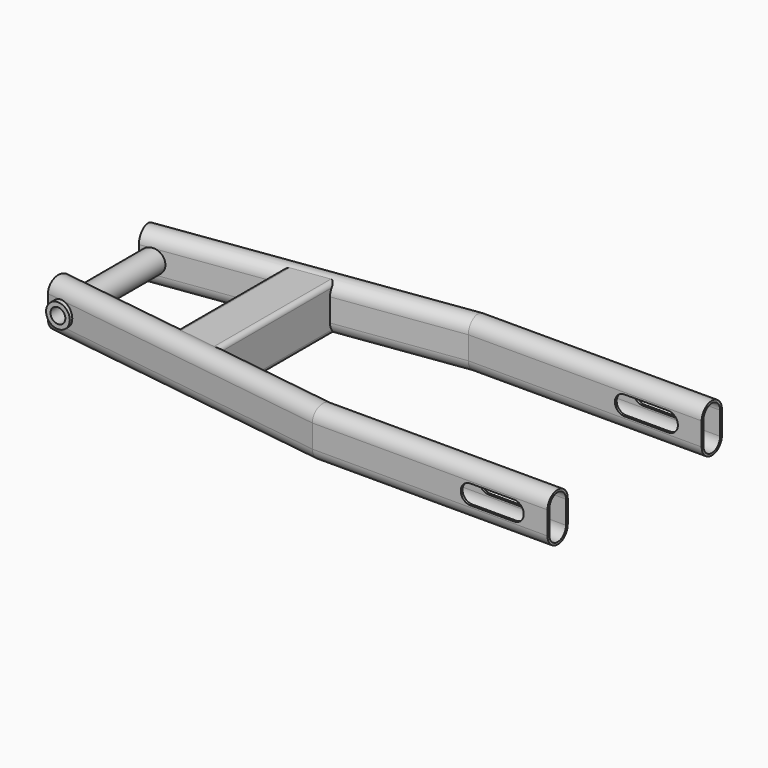
from build123d import *

# Parameters (mm, degrees)
F4_DEPTH = 25
F6_R     = 5
F7_DEPTH = 50
F6_R_2   = 8
F8_DEPTH = 50


with BuildPart() as f2:
    # F2: sweep along a path in F0
    with BuildLine(Plane.XY) as f2_path:
        Line((0, 65), (-158.03, 65))
        Line((-158.03, 65), (-358.4206463905, 36.8369312897))
    # F1 (on Right) → F2 (sweep)
    with BuildSketch(Plane.YZ):
        with BuildLine():
            ThreePointArc((56.464164108, -7.75), (65, -16.285835892), (73.535835892, -7.75))
            Line((73.535835892, -7.75), (73.535835892, 7.75))
            ThreePointArc((73.535835892, 7.75), (65, 16.285835892), (56.464164108, 7.75))
            Line((56.464164108, 7.75), (56.464164108, -7.75))
        make_face()
        with BuildLine():
            Line((57.964164108, -7.75), (57.964164108, 7.75))
            ThreePointArc((57.964164108, 7.75), (65, 14.785835892), (72.035835892, 7.75))
            Line((72.035835892, 7.75), (72.035835892, -7.75))
            ThreePointArc((72.035835892, -7.75), (65, -14.785835892), (57.964164108, -7.75))
        make_face(mode=Mode.SUBTRACT)
    sweep(path=f2_path.line, transition=Transition.RIGHT)

    # F3 (on face) → F4 (cut)
    with BuildSketch(Plane.XZ.offset(-56.464164108)):
        with BuildLine():
            ThreePointArc((-52.04, 6.5), (-58.54, 0), (-52.04, -6.5))
            Line((-52.04, -6.5), (-22.54, -6.5))
            ThreePointArc((-22.54, -6.5), (-16.04, 0), (-22.54, 6.5))
            Line((-22.54, 6.5), (-52.04, 6.5))
        make_face()
    extrude(amount=-F4_DEPTH, mode=Mode.SUBTRACT)


with BuildPart() as f5_1:
    # F5: instance of F2
    add(f2.part.mirror(Plane.XZ))


with BuildPart() as f7_tool:
    # F6 (on Front) → F7 (new body, symmetric)
    with BuildSketch(Plane.XZ):
        with Locations((-349.1286051409, 0)):
            Circle(F6_R)
    extrude(amount=F7_DEPTH, both=True)


with BuildPart() as f2_1:
    add(f2.part)

    # F7: cut by f7_tool
    add(f7_tool.part, mode=Mode.SUBTRACT)



with BuildPart() as f5_1_1:
    add(f5_1.part)

    # F7: cut by f7_tool
    add(f7_tool.part, mode=Mode.SUBTRACT)


with BuildPart() as f2_2:
    add(f2_1.part)

    add(f5_1_1.part)  # F8 merges F5_1
    # F6 (on Front) → F8 (join, symmetric)
    with BuildSketch(Plane.XZ):
        with Locations((-349.1286051409, 0)):
            Circle(F6_R_2)
        with Locations((-349.1286051409, 0)):
            Circle(F6_R, mode=Mode.SUBTRACT)
    extrude(amount=F8_DEPTH, both=True)

    # F9 (on Front) → F10 (join, up to the next surface of F2)
    with BuildSketch(Plane.XZ):
        with BuildLine():
            Line((-269.3186051409, -15.5), (-244.3186051409, -15.5))
            ThreePointArc((-244.3186051409, -15.5), (-242.1972847974, -14.6213203436), (-241.3186051409, -12.5))
            Line((-241.3186051409, -12.5), (-241.3186051409, 12.5))
            ThreePointArc((-241.3186051409, 12.5), (-242.1972847974, 14.6213203436), (-244.3186051409, 15.5))
            Line((-244.3186051409, 15.5), (-269.3186051409, 15.5))
            ThreePointArc((-269.3186051409, 15.5), (-271.4399254845, 14.6213203436), (-272.3186051409, 12.5))
            Line((-272.3186051409, 12.5), (-272.3186051409, -12.5))
            ThreePointArc((-272.3186051409, -12.5), (-271.4399254845, -14.6213203436), (-269.3186051409, -15.5))
        make_face()
        with BuildLine():
            ThreePointArc((-242.9186051409, -11.1832520723), (-243.7972847974, -13.3045724159), (-245.9186051409, -14.1832520723))
            Line((-245.9186051409, -14.1832520723), (-267.7186051409, -14.1832520723))
            ThreePointArc((-267.7186051409, -14.1832520723), (-269.8399254845, -13.3045724159), (-270.7186051409, -11.1832520723))
            Line((-270.7186051409, -11.1832520723), (-270.7186051409, 11.1832520723))
            ThreePointArc((-270.7186051409, 11.1832520723), (-269.8399254845, 13.3045724159), (-267.7186051409, 14.1832520723))
            Line((-267.7186051409, 14.1832520723), (-245.9186051409, 14.1832520723))
            ThreePointArc((-245.9186051409, 14.1832520723), (-243.7972847974, 13.3045724159), (-242.9186051409, 11.1832520723))
            Line((-242.9186051409, 11.1832520723), (-242.9186051409, -11.1832520723))
        make_face(mode=Mode.SUBTRACT)
    extrude(until=Until.NEXT)

    # F9 (on Front) → F11 (join, up to the next surface of F2)
    with BuildSketch(Plane.XZ):
        with BuildLine():
            Line((-269.3186051409, -15.5), (-244.3186051409, -15.5))
            ThreePointArc((-244.3186051409, -15.5), (-242.1972847974, -14.6213203436), (-241.3186051409, -12.5))
            Line((-241.3186051409, -12.5), (-241.3186051409, 12.5))
            ThreePointArc((-241.3186051409, 12.5), (-242.1972847974, 14.6213203436), (-244.3186051409, 15.5))
            Line((-244.3186051409, 15.5), (-269.3186051409, 15.5))
            ThreePointArc((-269.3186051409, 15.5), (-271.4399254845, 14.6213203436), (-272.3186051409, 12.5))
            Line((-272.3186051409, 12.5), (-272.3186051409, -12.5))
            ThreePointArc((-272.3186051409, -12.5), (-271.4399254845, -14.6213203436), (-269.3186051409, -15.5))
        make_face()
        with BuildLine():
            ThreePointArc((-242.9186051409, -11.1832520723), (-243.7972847974, -13.3045724159), (-245.9186051409, -14.1832520723))
            Line((-245.9186051409, -14.1832520723), (-267.7186051409, -14.1832520723))
            ThreePointArc((-267.7186051409, -14.1832520723), (-269.8399254845, -13.3045724159), (-270.7186051409, -11.1832520723))
            Line((-270.7186051409, -11.1832520723), (-270.7186051409, 11.1832520723))
            ThreePointArc((-270.7186051409, 11.1832520723), (-269.8399254845, 13.3045724159), (-267.7186051409, 14.1832520723))
            Line((-267.7186051409, 14.1832520723), (-245.9186051409, 14.1832520723))
            ThreePointArc((-245.9186051409, 14.1832520723), (-243.7972847974, 13.3045724159), (-242.9186051409, 11.1832520723))
            Line((-242.9186051409, 11.1832520723), (-242.9186051409, -11.1832520723))
        make_face(mode=Mode.SUBTRACT)
    extrude(until=Until.NEXT, dir=(0, 1, 0))


solid = f2_2.part
